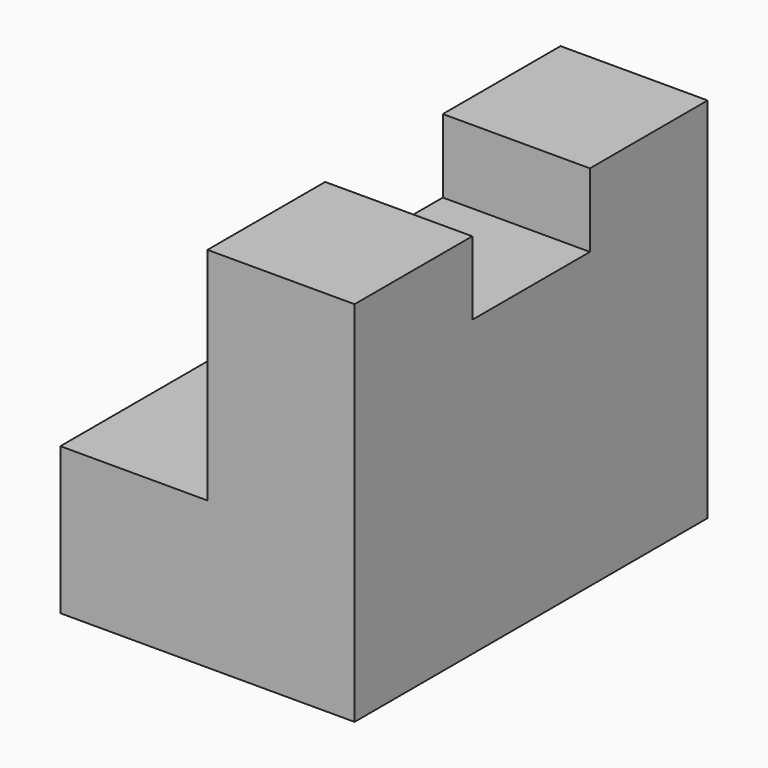
from build123d import *

# Parameters (mm, degrees)
F1_DEPTH = 38.1
F2_W     = 12.7
F2_H     = 6.35
F3_DEPTH = 25.4


with BuildPart() as f1:
    # F0 (on Front) → F1 (new body)
    with BuildSketch(Plane.XZ):
        Polygon((-31.16195, 57.104496), (-43.86195, 57.104496), (-43.86195, 38.054496), (-56.56195, 38.054496), (-56.56195, 25.354496), (-31.16195, 25.354496), align=None)
    extrude(amount=F1_DEPTH)

    # F2 (on face) → F3 (cut)
    with BuildSketch(Plane.YZ.offset(-31.16195)):
        with Locations((-19.05, 53.929496)):
            Rectangle(F2_W, F2_H)
    extrude(amount=-F3_DEPTH, mode=Mode.SUBTRACT)


solid = f1.part
